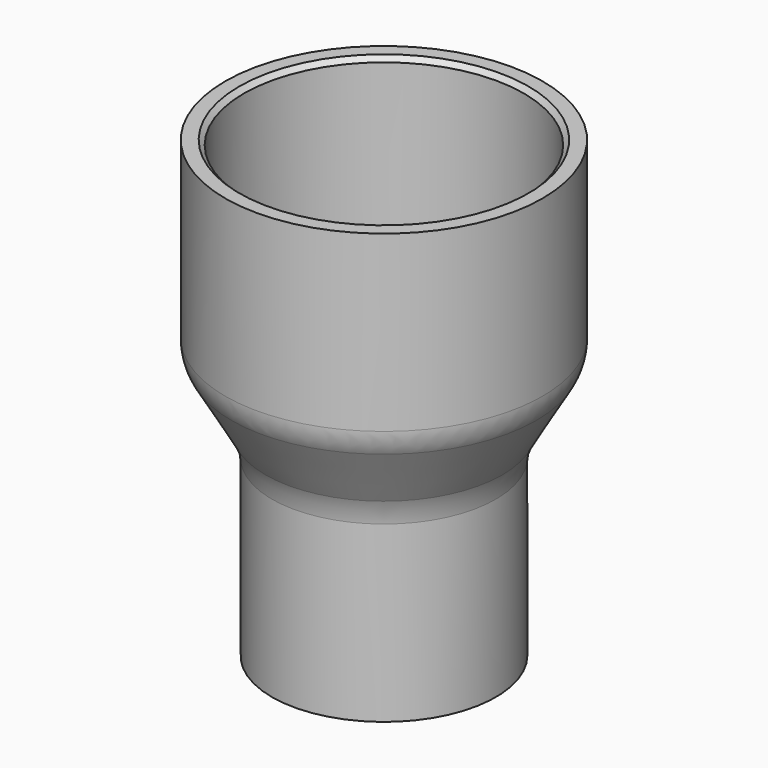
from build123d import *

# Parameters (mm, degrees)
F2_R    = 6.35
F3_SIZE = 0.635


with BuildPart() as f1:
    # F0 (on Front) → F1 (revolve)
    with BuildSketch(Plane.XZ):
        Polygon((-19.05, 61.798523), (-21.59, 61.798523), (-21.59, 36.398523), (-15.24, 25.4), (-15.24, 0), (-12.7, 0), (-12.7, 26.080591), (-19.05, 37.079114), align=None)
    revolve(axis=Axis((0, 0, 30.899261), (0, 0, -1)))

    # F2
    f2_edges = [f1.edges().sort_by_distance(p)[0] for p in [
        (21.59, 0, 36.398523),
        (15.24, 0, 25.4),
        (19.05, 0, 37.079114),
        (12.7, 0, 26.080591),
    ]]
    fillet(f2_edges, radius=F2_R)

    # F3
    f3_edges = [f1.edges().sort_by_distance(p)[0] for p in [
        (12.7, 0, 0),
        (19.05, 0, 61.798523),
    ]]
    chamfer(f3_edges, length=F3_SIZE)


solid = f1.part
